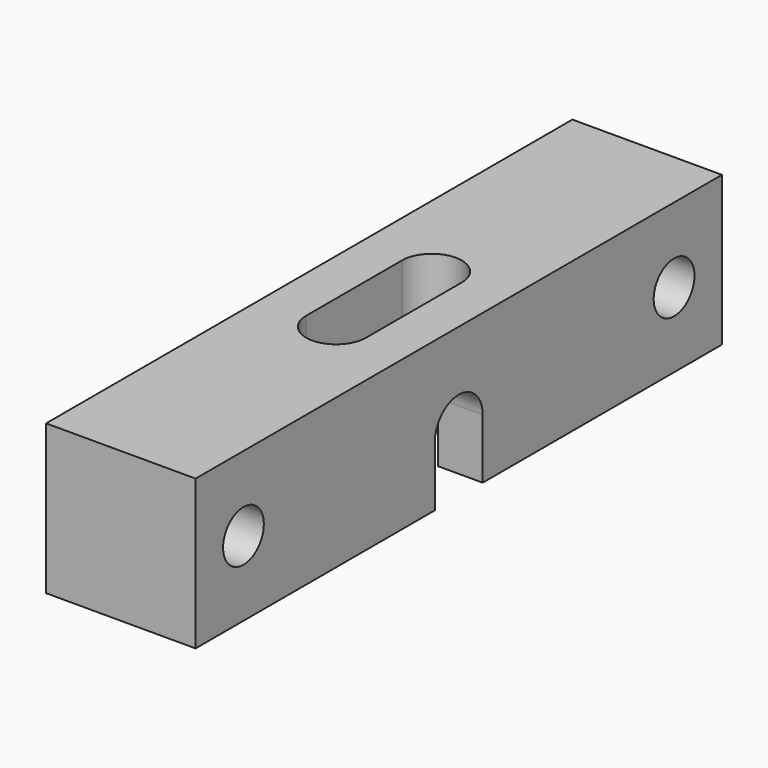
from build123d import *

# Parameters (mm, degrees)
F0_W     = 7.9375
F0_H     = 34.925
F1_DEPTH = 7.9375
F2_R     = 1.35255
F3_DEPTH = 6.35
F4_R     = 1.35255
F5_DEPTH = 6.35
F7_DEPTH = 7.9375


with BuildPart() as f1:
    # F0 (on Top) → F1 (new body)
    with BuildSketch(Plane.XY):
        Rectangle(F0_W, F0_H)
        with BuildLine():
            Line((1.5875, 3.175), (1.5875, -3.175))
            ThreePointArc((1.5875, -3.175), (0, -4.7625), (-1.5875, -3.175))
            Line((-1.5875, -3.175), (-1.5875, 3.175))
            ThreePointArc((-1.5875, 3.175), (0, 4.7625), (1.5875, 3.175))
        make_face(mode=Mode.SUBTRACT)
    extrude(amount=F1_DEPTH)

    # F2 (on face) → F3 (cut)
    with BuildSketch(Plane(origin=(0, 0, 0), x_dir=(1, 0, 0), z_dir=(0, 0, -1))):
        with Locations((0, -7.9375)):
            Circle(F2_R)
        with Locations((0, 7.9375)):
            Circle(F2_R)
    extrude(amount=-F3_DEPTH, mode=Mode.SUBTRACT)

    # F4 (on face) → F5 (cut)
    with BuildSketch(Plane.YZ.offset(3.96875)):
        with Locations((14.2875, 3.96875)):
            Circle(F4_R)
        with Locations((-14.2875, 3.96875)):
            Circle(F4_R)
    extrude(amount=-F5_DEPTH, mode=Mode.SUBTRACT)

    # F6 (on face) → F7 (cut, through all)
    with BuildSketch(Plane(origin=(-3.96875, 0, 0), x_dir=(0, -1, 0), z_dir=(-1, 0, 0))):
        with BuildLine():
            Line((-1.5875, 3.175), (-1.5875, 0))
            Line((-1.5875, 0), (1.5875, 0))
            Line((1.5875, 0), (1.5875, 3.175))
            ThreePointArc((1.5875, 3.175), (0, 4.7625), (-1.5875, 3.175))
        make_face()
    extrude(amount=-F7_DEPTH, mode=Mode.SUBTRACT)


solid = f1.part
